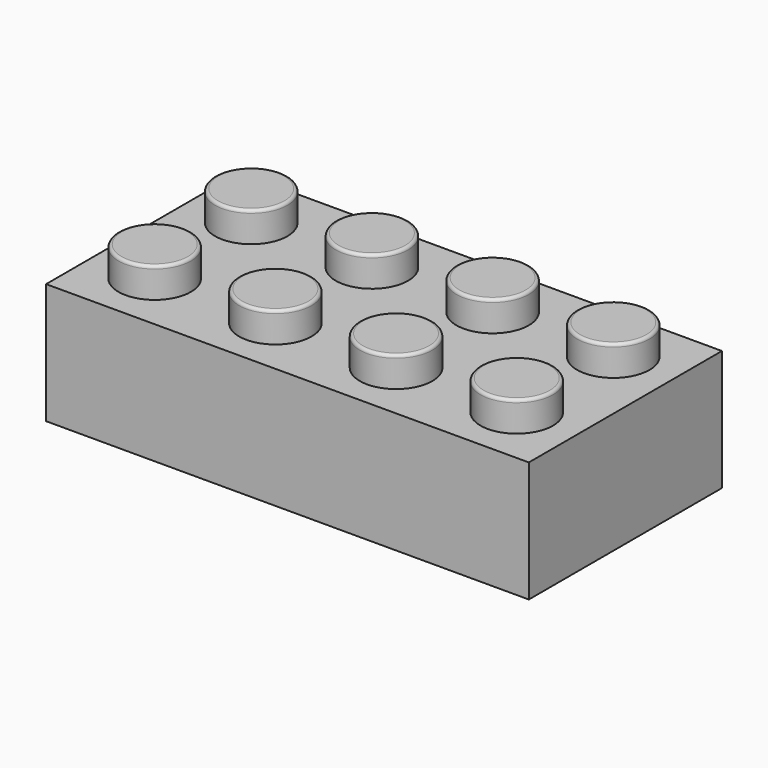
from build123d import *

# Parameters (mm, degrees)
F0_W     = 160
F0_H     = 80
F1_DEPTH = 40
F2_W     = 144
F2_H     = 64
F3_DEPTH = 30
F4_R     = 12
F5_DEPTH = 10
F6_R     = 1


with BuildPart() as f1:
    # F0 (on Top) → F1 (new body)
    with BuildSketch(Plane.XY):
        with Locations((-16.289063, 2.548076)):
            Rectangle(F0_W, F0_H)
    extrude(amount=F1_DEPTH)

    # F2 (on face) → F3 (cut)
    with BuildSketch(Plane(origin=(0, 0, 0), x_dir=(1, 0, 0), z_dir=(0, 0, -1))):
        with Locations((-16.289063, -2.548076)):
            Rectangle(F2_W, F2_H)
    extrude(amount=-F3_DEPTH, mode=Mode.SUBTRACT)

    # F4 (on face) → F5 (join)
    with BuildSketch(Plane.XY.offset(40)):
        with Locations((-76.289063, 22.548076)):
            Circle(F4_R)
        with Locations((-76.289063, -17.451924)):
            Circle(F4_R)
        with Locations((-36.289063, 22.548076)):
            Circle(F4_R)
        with Locations((-36.289063, -17.451924)):
            Circle(F4_R)
        with Locations((3.710937, 22.548076)):
            Circle(F4_R)
        with Locations((3.710937, -17.451924)):
            Circle(F4_R)
        with Locations((43.710937, 22.548076)):
            Circle(F4_R)
        with Locations((43.710937, -17.451924)):
            Circle(F4_R)
    extrude(amount=F5_DEPTH)

    # F6
    f6_edges = [f1.edges().sort_by_distance(p)[0] for p in [
        (-88.289063, 22.548076, 50),
        (-48.289063, 22.548076, 50),
        (-8.289063, 22.548076, 50),
        (31.710937, 22.548076, 50),
        (31.710937, -17.451924, 50),
        (-8.289063, -17.451924, 50),
        (-48.289063, -17.451924, 50),
        (-88.289063, -17.451924, 50),
    ]]
    fillet(f6_edges, radius=F6_R)


solid = f1.part
